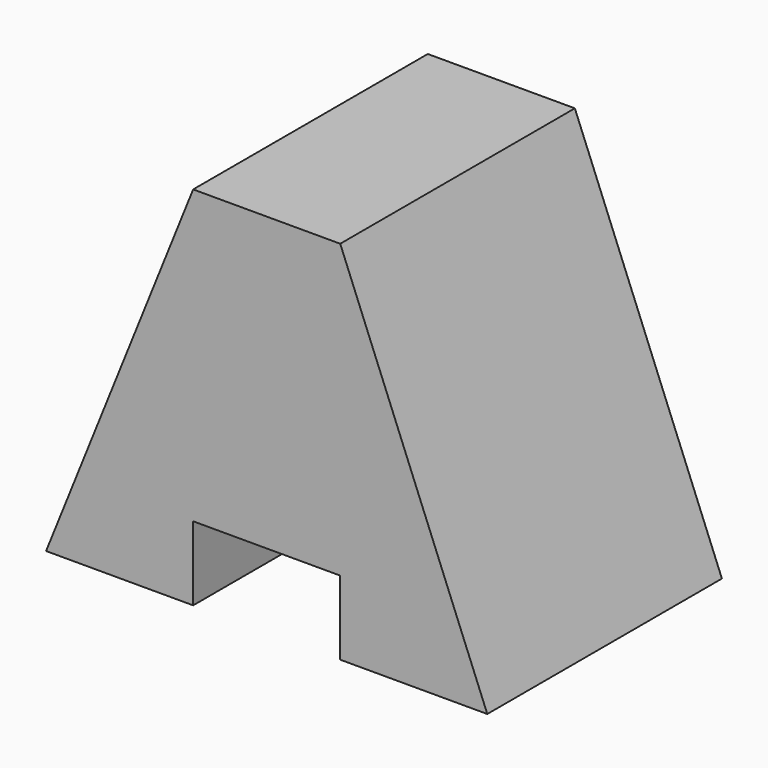
from build123d import *

# Parameters (mm, degrees)
F0_W     = 38.2099039853
F0_H     = 31.7133665085
F1_DEPTH = 25.4
F3_DEPTH = 25.401
F5_DEPTH = 25.401
F6_W     = 12.736634817
F6_H     = 6.4110578969
F7_DEPTH = 25.401


with BuildPart() as f1:
    # F0 (on Front) → F1 (new body)
    with BuildSketch(Plane.XZ):
        with Locations((19.1049519926, 15.8566832542)):
            Rectangle(F0_W, F0_H)
    extrude(amount=F1_DEPTH)

    # F2 (on face) → F3 (cut, through all)
    with BuildSketch(Plane.XZ.offset(25.4)):
        Polygon((0, 0), (12.7366343513, 31.7133665085), (0, 31.7133665085), align=None)
    extrude(amount=-F3_DEPTH, mode=Mode.SUBTRACT)

    # F4 (on face) → F5 (cut, through all)
    with BuildSketch(Plane.XZ.offset(25.4)):
        Polygon((38.2099039853, 31.7133665085), (25.4732691683, 31.7133665085), (38.2099039853, 0), align=None)
    extrude(amount=-F5_DEPTH, mode=Mode.SUBTRACT)

    # F6 (on face) → F7 (cut, through all)
    with BuildSketch(Plane.XZ.offset(25.4)):
        with Locations((19.1049517598, 3.2055289485)):
            Rectangle(F6_W, F6_H)
    extrude(amount=-F7_DEPTH, mode=Mode.SUBTRACT)


solid = f1.part
